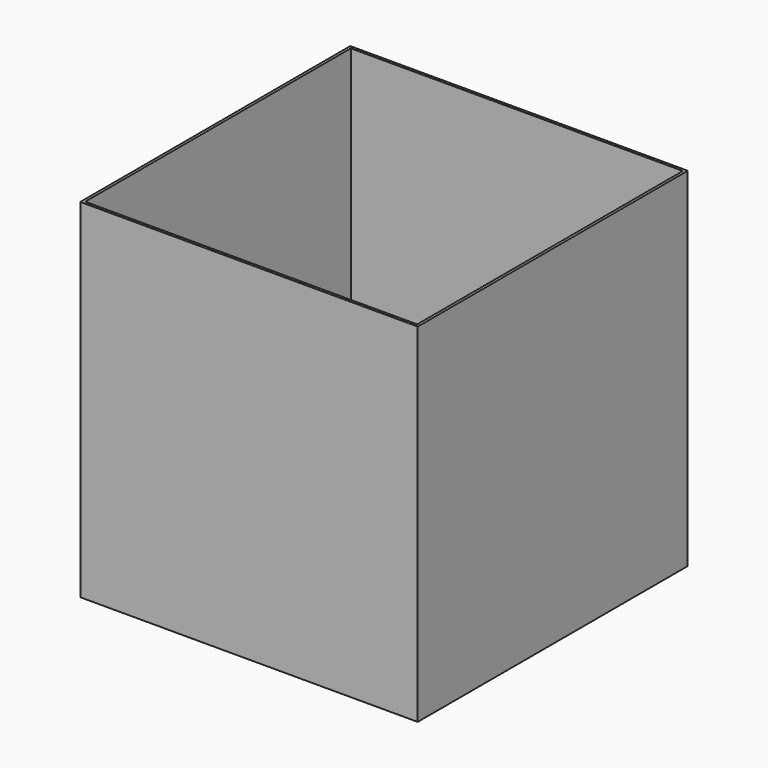
from build123d import *

# Parameters (mm, degrees)
F0_W     = 80
F0_H     = 82.5
F1_DEPTH = 40
F2_W     = 78.73
F2_H     = 78.73
F3_DEPTH = 78.73


with BuildPart() as f1:
    # F0 (on Front) → F1 (new body, symmetric)
    with BuildSketch(Plane.XZ):
        with Locations((-3e-06, -0.829122)):
            Rectangle(F0_W, F0_H)
    extrude(amount=F1_DEPTH, both=True)

    # F2 (on face) → F3 (cut)
    with BuildSketch(Plane.XY.offset(40.420878)):
        Rectangle(F2_W, F2_H)
    extrude(amount=-F3_DEPTH, mode=Mode.SUBTRACT)


solid = f1.part
